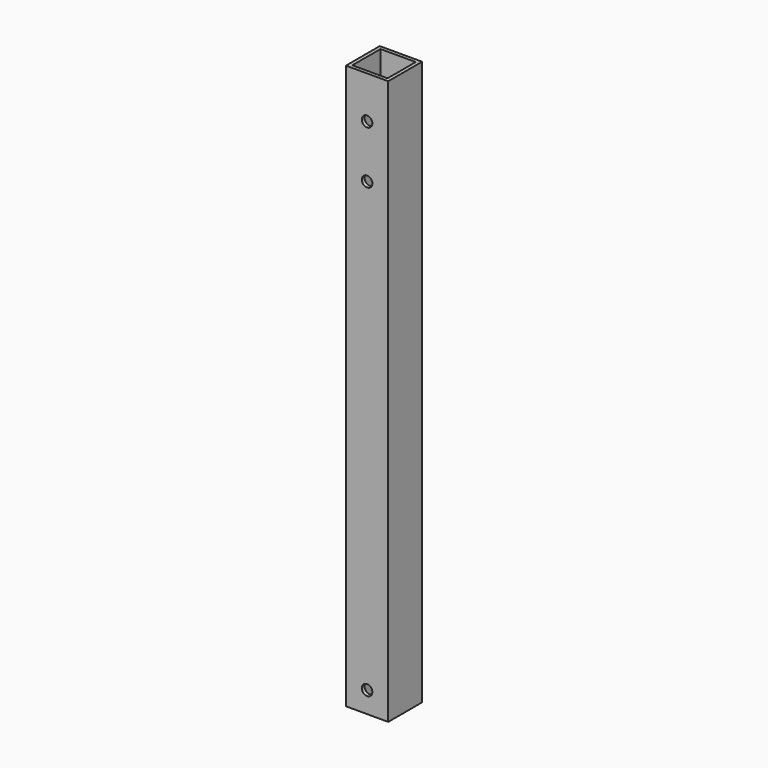
from build123d import *

# Parameters (mm, degrees)
F0_W     = 38.1
F0_H     = 38.1
F0_W_2   = 31.75
F0_H_2   = 31.75
F1_DEPTH = 508
F2_R     = 4.7625
F3_DEPTH = 38.101
F4_R     = 4.7625
F5_DEPTH = 38.101
F6_R     = 4.7625
F7_DEPTH = 38.101


with BuildPart() as f1:
    # F0 (on Top) → F1 (new body)
    with BuildSketch(Plane.XY):
        with Locations((19.05, 19.05)):
            Rectangle(F0_W, F0_H)
        with Locations((19.05, 19.05)):
            Rectangle(F0_W_2, F0_H_2, mode=Mode.SUBTRACT)
    extrude(amount=F1_DEPTH)

    # F2 (on face) → F3 (cut, through all)
    with BuildSketch(Plane.XZ):
        with Locations((19.05, 19.05)):
            Circle(F2_R)
    extrude(amount=-F3_DEPTH, mode=Mode.SUBTRACT)

    # F4 (on face) → F5 (cut, through all)
    with BuildSketch(Plane.XZ):
        with Locations((19.05, 422.275)):
            Circle(F4_R)
    extrude(amount=-F5_DEPTH, mode=Mode.SUBTRACT)

    # F6 (on face) → F7 (cut, through all)
    with BuildSketch(Plane.XZ):
        with Locations((19.05, 469.9)):
            Circle(F6_R)
    extrude(amount=-F7_DEPTH, mode=Mode.SUBTRACT)


solid = f1.part
